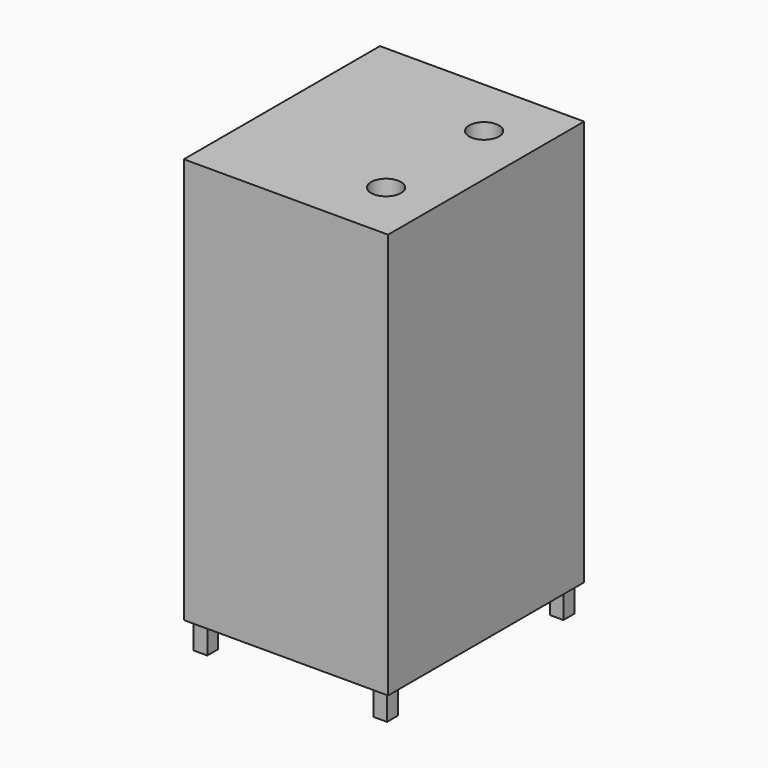
from build123d import *

# Parameters (mm, degrees)
F0_W     = 750
F0_H     = 900
F1_DEPTH = 1490
F2_W     = 50
F2_H     = 50
F3_DEPTH = 100
F4_R     = 55
F5_DEPTH = 200


with BuildPart() as f1:
    # F0 (on Top) → F1 (new body)
    with BuildSketch(Plane.XY):
        Rectangle(F0_W, F0_H)
    extrude(amount=-F1_DEPTH)

    # F2 (on face) → F3 (join)
    with BuildSketch(Plane(origin=(0, 0, -1490), x_dir=(1, 0, 0), z_dir=(0, 0, -1))):
        with Locations((-330, 405)):
            Rectangle(F2_W, F2_H)
        with Locations((330, 405)):
            Rectangle(F2_W, F2_H)
        with Locations((-330, -405)):
            Rectangle(F2_W, F2_H)
        with Locations((330, -405)):
            Rectangle(F2_W, F2_H)
    extrude(amount=F3_DEPTH)

    # F4 (on face) → F5 (cut)
    with BuildSketch(Plane.XY):
        with Locations((187.5, 225)):
            Circle(F4_R)
        with Locations((187.5, -225)):
            Circle(F4_R)
    extrude(amount=-F5_DEPTH, mode=Mode.SUBTRACT)


solid = f1.part
